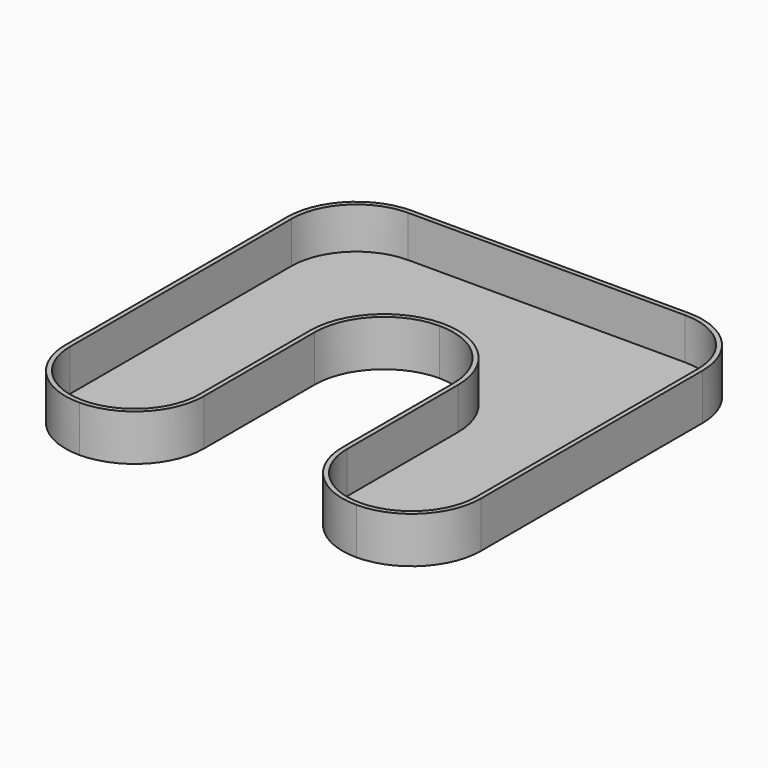
from build123d import *

# Parameters (mm, degrees)
F1_DEPTH = 10
F2_T     = -1


with BuildPart() as f1:
    # F0 (on Top) → F1 (new body)
    with BuildSketch(Plane.XY):
        with BuildLine():
            Line((-90, 75), (-90, 15))
            ThreePointArc((-90, 15), (-85.606602, 4.393398), (-75, 0))
            ThreePointArc((-75, 0), (-64.393398, 4.393398), (-60, 15))
            Line((-60, 15), (-60, 45))
            ThreePointArc((-60, 45), (-55.606602, 55.606602), (-45, 60))
            ThreePointArc((-45, 60), (-34.393398, 55.606602), (-30, 45))
            Line((-30, 45), (-30, 15))
            ThreePointArc((-30, 15), (-25.606602, 4.393398), (-15, 0))
            ThreePointArc((-15, 0), (-4.393398, 4.393398), (0, 15))
            Line((0, 15), (0, 75))
            ThreePointArc((0, 75), (-4.393398, 85.606602), (-15, 90))
            Line((-15, 90), (-75, 90))
            ThreePointArc((-75, 90), (-85.606602, 85.606602), (-90, 75))
        make_face()
        with BuildLine():
            Line((-90, 75), (-90, 15))
            ThreePointArc((-90, 15), (-85.606602, 4.393398), (-75, 0))
            ThreePointArc((-75, 0), (-64.393398, 4.393398), (-60, 15))
            Line((-60, 15), (-60, 45))
            ThreePointArc((-60, 45), (-55.606602, 55.606602), (-45, 60))
            ThreePointArc((-45, 60), (-34.393398, 55.606602), (-30, 45))
            Line((-30, 45), (-30, 15))
            ThreePointArc((-30, 15), (-25.606602, 4.393398), (-15, 0))
            ThreePointArc((-15, 0), (-4.393398, 4.393398), (0, 15))
            Line((0, 15), (0, 75))
            ThreePointArc((0, 75), (-4.393398, 85.606602), (-15, 90))
            Line((-15, 90), (-75, 90))
            ThreePointArc((-75, 90), (-85.606602, 85.606602), (-90, 75))
        make_face()
    extrude(amount=F1_DEPTH)

    # F2
    f2_openings = [f1.faces().sort_by_distance(p)[0] for p in [
        (-5.293398, 84.706602, 10),
    ]]
    offset(amount=F2_T, openings=f2_openings)


solid = f1.part
